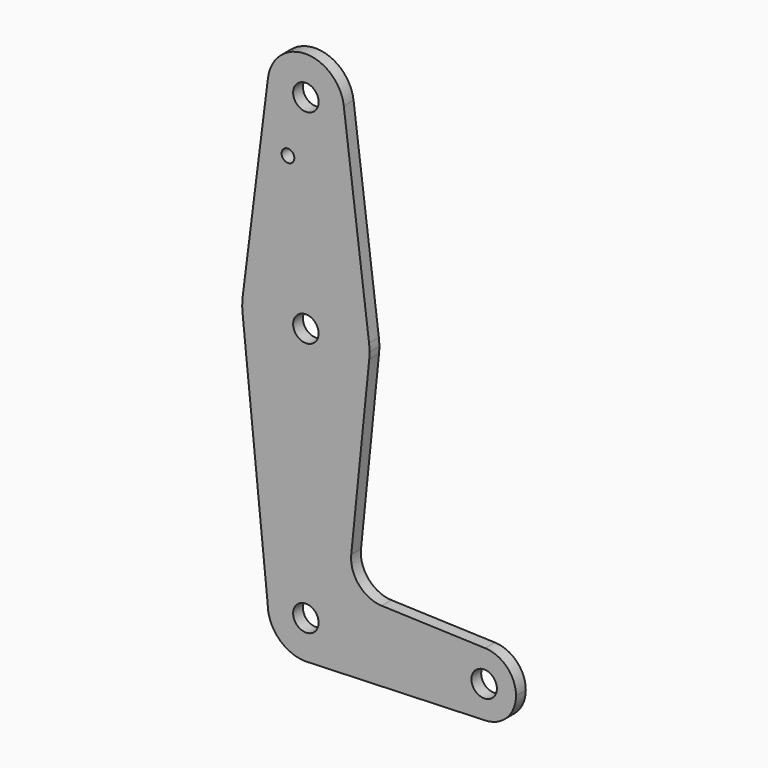
from build123d import *

# Parameters (mm, degrees)
F0_R     = 3.175
F0_R_2   = 1.5875
F1_DEPTH = 3.048


with BuildPart() as f1:
    # F0 (on Front) → F1 (new body)
    with BuildSketch(Plane.XZ):
        with BuildLine():
            ThreePointArc((15.794203, 30.778964), (15.854788, 31.577754), (15.875, 32.378584))
            ThreePointArc((15.875, 32.378584), (15.843841, 33.372723), (15.750488, 34.362959))
            ThreePointArc((15.750488, 34.362959), (0, 48.253584), (-15.750488, 34.362959))
            ThreePointArc((-15.750488, 34.362959), (-15.873819, 32.572199), (-15.794203, 30.778964))
            ThreePointArc((-15.794203, 30.778964), (0, 16.503584), (15.794203, 30.778964))
        make_face()
        with Locations((0, 32.378584)):
            Circle(F0_R, mode=Mode.SUBTRACT)
        with BuildLine():
            ThreePointArc((-15.750488, 34.362959), (0, 48.253584), (15.750488, 34.362959))
            Line((15.750488, 34.362959), (9.450293, 84.369209))
            ThreePointArc((9.450293, 84.369209), (9.506305, 83.775067), (9.525, 83.178584))
            ThreePointArc((9.525, 83.178584), (-0.596483, 73.672279), (-9.450293, 84.369209))
            Line((-9.450293, 84.369209), (-15.750488, 34.362959))
        make_face()
        with Locations((-4.465613, 68.903784)):
            Circle(F0_R_2, mode=Mode.SUBTRACT)
        with BuildLine():
            Line((11.307223, -13.524236), (15.794203, 30.778964))
            ThreePointArc((15.794203, 30.778964), (0, 16.503584), (-15.794203, 30.778964))
            Line((-15.794203, 30.778964), (-9.525, -31.121416))
            ThreePointArc((-9.525, -31.121416), (0, -21.596416), (9.525, -31.121416))
            ThreePointArc((9.525, -31.121416), (6.970557, -37.612715), (0.677344, -40.622302))
            Line((0.677344, -40.622302), (44.732405, -39.053891))
            ThreePointArc((44.732405, -39.053891), (36.5125, -31.121416), (44.732405, -23.188942))
            Line((44.732405, -23.188942), (18.934103, -22.270492))
            ThreePointArc((18.934103, -22.270492), (13.224974, -19.550436), (11.307223, -13.524236))
        make_face()
        with BuildLine():
            ThreePointArc((9.525, 83.178584), (9.506305, 83.775067), (9.450293, 84.369209))
            ThreePointArc((9.450293, 84.369209), (0, 92.703584), (-9.450293, 84.369209))
            ThreePointArc((-9.450293, 84.369209), (-0.596483, 73.672279), (9.525, 83.178584))
        make_face()
        with Locations((0, 83.178584)):
            Circle(F0_R, mode=Mode.SUBTRACT)
        with BuildLine():
            ThreePointArc((9.525, -31.121416), (0, -21.596416), (-9.525, -31.121416))
            ThreePointArc((-9.525, -31.121416), (-6.735192, -37.856608), (0, -40.646416))
            Line((0, -40.646416), (0.677344, -40.622302))
            ThreePointArc((0.677344, -40.622302), (6.970557, -37.612715), (9.525, -31.121416))
        make_face()
        with Locations((0, -31.121416)):
            Circle(F0_R, mode=Mode.SUBTRACT)
        with BuildLine():
            Line((0.677344, -40.622302), (0, -40.646416))
            ThreePointArc((0, -40.646416), (0.338886, -40.640386), (0.677344, -40.622302))
        make_face()
        with BuildLine():
            ThreePointArc((52.3875, -31.121416), (50.161633, -25.609506), (44.732405, -23.188942))
            ThreePointArc((44.732405, -23.188942), (36.5125, -31.121416), (44.732405, -39.053891))
            ThreePointArc((44.732405, -39.053891), (50.161633, -36.633327), (52.3875, -31.121416))
        make_face()
        with Locations((44.45, -31.121416)):
            Circle(F0_R, mode=Mode.SUBTRACT)
    extrude(amount=F1_DEPTH)


solid = f1.part
